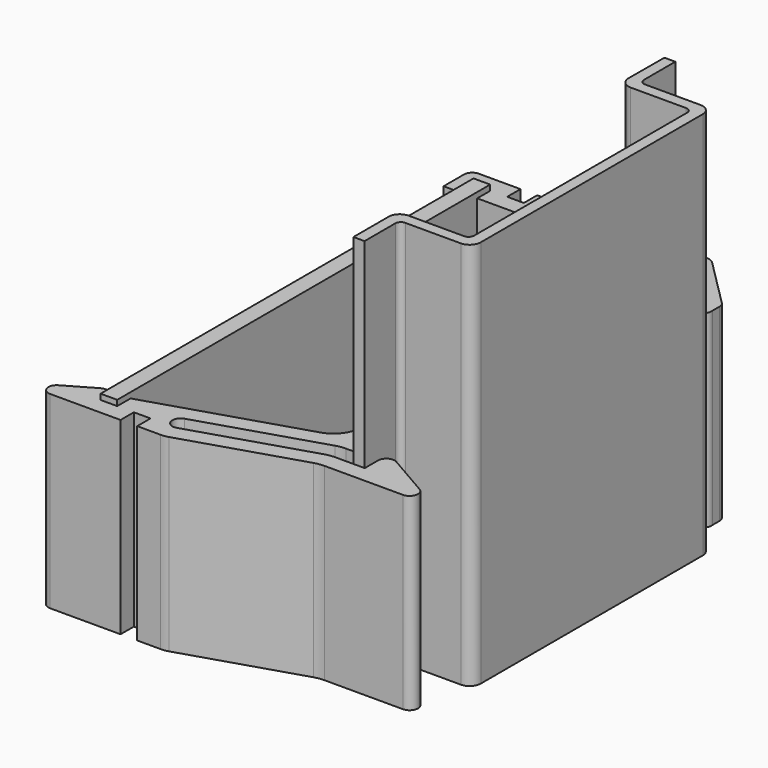
from build123d import *

# Parameters (mm, degrees)
PAD001_DEPTH         = 35
BOX_W                = 1.5
BOX_H                = 42
BOX_DEPTH            = 17.5
CYLINDER_R           = 1.25
CYLINDER_DEPTH       = 10
CYLINDER_PITCH_ANGLE = -90
PAD_DEPTH            = 17


with BuildPart() as din_rail:
    # Sketch001 → Pad001 (new body)
    with BuildSketch(Plane(origin=(0, 17.5, 0), x_dir=(1, 0, 0), z_dir=(0, 0, 1))):
        with BuildLine():
            Line((0, 0), (0.981065, 0))
            Line((0.981065, 0), (0.981065, -3.535445))
            ThreePointArc((0.981065, -3.535445), (1.127512, -3.888998), (1.481065, -4.035445))
            Line((1.481065, -4.035445), (6.481065, -4.035445))
            ThreePointArc((7.481065, -5.035445), (7.188172, -4.328338), (6.481065, -4.035445))
            Line((7.481065, -5.035445), (7.481065, -30.035445))
            ThreePointArc((6.481065, -31.035445), (7.188172, -30.742552), (7.481065, -30.035445))
            Line((6.481065, -31.035445), (1.481065, -31.035445))
            ThreePointArc((1.481065, -31.035445), (1.127512, -31.181892), (0.981065, -31.535445))
            Line((0.981065, -31.535445), (0.981065, -35))
            Line((0.981065, -35), (-0.018935, -35))
            Line((-0.018935, -35), (-0.018935, -31.035445))
            ThreePointArc((0.981065, -30.035445), (0.273958, -30.328338), (-0.018935, -31.035445))
            Line((0.981065, -30.035445), (5.981065, -30.035445))
            ThreePointArc((5.981065, -30.035445), (6.334618, -29.888998), (6.481065, -29.535445))
            Line((6.481065, -29.535445), (6.481065, -5.535445))
            ThreePointArc((6.481065, -5.535445), (6.334618, -5.181892), (5.981065, -5.035445))
            Line((5.981065, -5.035445), (0.981065, -5.035445))
            ThreePointArc((-0.018935, -4.035445), (0.273958, -4.742552), (0.981065, -5.035445))
            Line((-0.018935, -4.035445), (0, 0))
        make_face()
    extrude(amount=PAD001_DEPTH)


with BuildPart() as pcb:
    # Box → Box (new body)
    with BuildSketch(Plane(origin=(-20, -21, 0), x_dir=(1, 0, 0), z_dir=(0, 0, 1))):
        with Locations((0.75, 21)):
            Rectangle(BOX_W, BOX_H)
    extrude(amount=BOX_DEPTH)


with BuildPart() as bracket_hole:
    # Cylinder → Cylinder (new body)
    with BuildSketch(Plane.XY):
        Circle(CYLINDER_R)
    extrude(amount=CYLINDER_DEPTH)


with BuildPart() as bracket_hole_1:
    # Cylinder pitch: moved
    add(bracket_hole.part.rotate(Axis((0, 0, 0), (0, 1, 0)), CYLINDER_PITCH_ANGLE))


with BuildPart() as bracket_hole_2:
    # Cylinder placement: moved
    add(bracket_hole_1.part.moved(Location((5, 0, 8.5))))


with BuildPart() as din_bracket_single:
    # Sketch → Pad (new body)
    with BuildSketch(Plane(origin=(-3, 0, 0), x_dir=(1, 0, 0), z_dir=(0, 0, 1))):
        with BuildLine():
            Line((2.771987, 22.541663), (-12.5, 22.541663))
            Line((-12.5, 22.541663), (-12.5, 21.041663))
            Line((-12.5, 21.041663), (-14, 21.041663))
            Line((-14, 21.041663), (-14, 22.541663))
            Line((-14, 22.541663), (-17.75, 22.541663))
            ThreePointArc((-17.75, 22.541663), (-18.28033, 22.321993), (-18.5, 21.791663))
            Line((-18.5, 21.791663), (-18.5, 19.5))
            Line((-18.5, 19.5), (-17, 19.5))
            Line((-17, 19.5), (-17, 21))
            Line((-17, 21), (-15.5, 21))
            Line((-15.5, 21), (-15.5, 19.541663))
            Line((-15.5, 19.541663), (-1.047056, 19.541663))
            ThreePointArc((0, 18.474809), (-0.305125, 19.222587), (-1.047056, 19.541663))
            Line((0, 18.474809), (-0.037298, -12.767241))
            ThreePointArc((-1.830702, -15.207168), (-0.534684, -14.280711), (-0.037298, -12.767241))
            Line((-15.5, -19.5), (-1.830702, -15.207168))
            Line((-15.5, -19.5), (-15.5, -21))
            Line((-15.5, -21), (-17, -21))
            Line((-17, -21), (-17, -20.25))
            ThreePointArc((-17, -20.25), (-17.375, -19.600481), (-18.125, -19.600481))
            Line((-18.125, -19.600481), (-20.723075, -21.100481))
            ThreePointArc((-20.723075, -21.100481), (-21.072519, -21.944114), (-20.348075, -22.5))
            Line((-20.348075, -22.5), (-14, -22.5))
            Line((-14, -22.5), (-14, -21))
            Line((-14, -21), (-12.5, -21))
            Line((-12.5, -21), (-12.5, -22.5))
            Line((-12.5, -22.5), (-10.37868, -22.5))
            ThreePointArc((-10.37868, -22.5), (-10.037666, -22.474008), (-9.704532, -22.396631))
            Line((0.672204, -19.137825), (-9.704532, -22.396631))
            ThreePointArc((1.571068, -19), (1.116383, -19.034657), (0.672204, -19.137825))
            Line((1.571068, -19), (8.646899, -19))
            ThreePointArc((8.646899, -19), (9.371343, -18.444114), (9.021899, -17.600481))
            Line((9.021899, -17.600481), (5.124786, -15.350481))
            ThreePointArc((5.124786, -15.350481), (4.374786, -15.350481), (3.999786, -16))
            Line((3.999786, -16), (3.999786, -17.5))
            Line((3.999786, -17.5), (1.341069, -17.5))
            ThreePointArc((1.341069, -17.5), (0.886384, -17.534657), (0.442205, -17.637825))
            Line((-10.153969, -20.965545), (0.442205, -17.637825))
            ThreePointArc((-10.6034, -19.534458), (-11.094223, -20.474716), (-10.153969, -20.965545))
            Line((0.212206, -16.137825), (-10.6034, -19.534458))
            ThreePointArc((1.111069, -16), (0.656385, -16.034657), (0.212206, -16.137825))
            Line((1.111069, -16), (2.999786, -16))
            Line((2.999786, -16), (2.999786, 17.5))
            Line((2.999786, 17.5), (3.999786, 17.5))
            Line((3.999786, 17.5), (5.556936, 15.942849))
            ThreePointArc((5.556936, 15.942849), (5.815061, 15.743569), (6.133362, 15.672675))
            Line((6.133362, 15.672675), (7.513396, 15.672675))
            ThreePointArc((7.513396, 15.672675), (7.992308, 15.980285), (8.11731, 16.535582))
            Line((8.11731, 16.535582), (8.11731, 17.314455))
            ThreePointArc((8.11731, 17.314455), (8.06022, 17.601467), (7.897641, 17.844785))
            Line((3.50396, 22.23847), (7.897641, 17.844785))
            ThreePointArc((3.50396, 22.23847), (3.168128, 22.462866), (2.771987, 22.541663))
        make_face()
    extrude(amount=PAD_DEPTH)

    # Cut: cut bracket hole
    add(bracket_hole_2.part, mode=Mode.SUBTRACT)


solid = Compound([din_rail.part, pcb.part, din_bracket_single.part])
